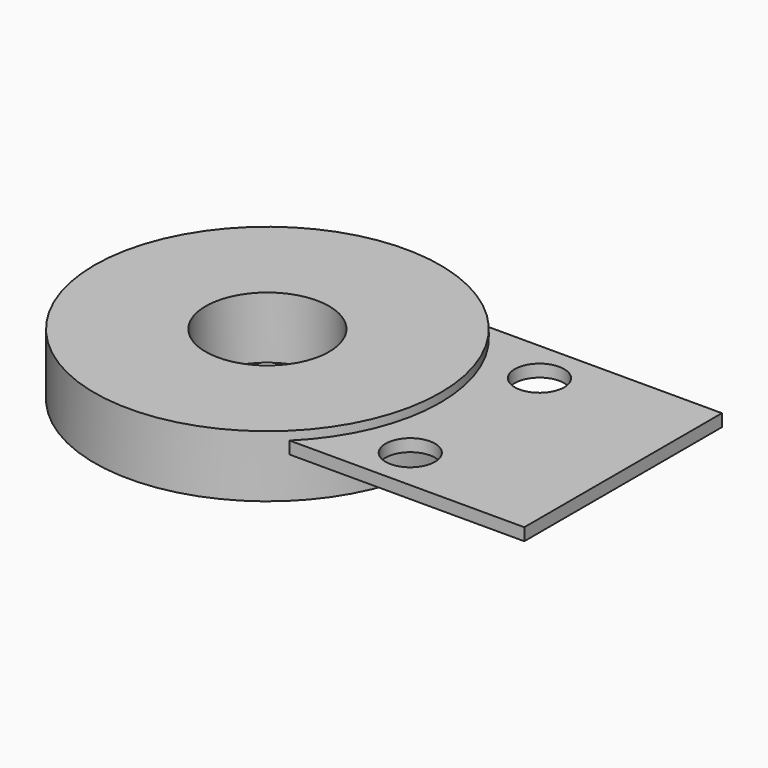
from build123d import *

# Parameters (mm, degrees)
F0_W     = 25.4
F0_H     = 1.27
F1_DEPTH = 12.7
F2_R     = 2.54
F3_DEPTH = 1.271
F4_R     = 17.78
F5_DEPTH = 3.175
F6_R     = 6.35
F7_DEPTH = 6.351


with BuildPart() as f1:
    # F0 (on Front) → F1 (new body, symmetric)
    with BuildSketch(Plane.XZ):
        with Locations((12.7, 1.651)):
            Rectangle(F0_W, F0_H)
    extrude(amount=F1_DEPTH, both=True)

    # F2 (on face) → F3 (cut, through all)
    with BuildSketch(Plane(origin=(0, 0, 1.016), x_dir=(1, 0, 0), z_dir=(0, 0, -1))):
        with Locations((10.16, 8.300591)):
            Circle(F2_R)
        with Locations((10.16, -8.300591)):
            Circle(F2_R)
    extrude(amount=-F3_DEPTH, mode=Mode.SUBTRACT)

    # F4 (on Top) → F5 (join, symmetric)
    with BuildSketch(Plane.XY):
        with Locations((-11.176, 0)):
            Circle(F4_R)
    extrude(amount=F5_DEPTH, both=True)

    # F6 (on face) → F7 (cut, through all)
    with BuildSketch(Plane.XY.offset(3.175)):
        with Locations((-11.176, 0)):
            Circle(F6_R)
    extrude(amount=-F7_DEPTH, mode=Mode.SUBTRACT)


solid = f1.part
